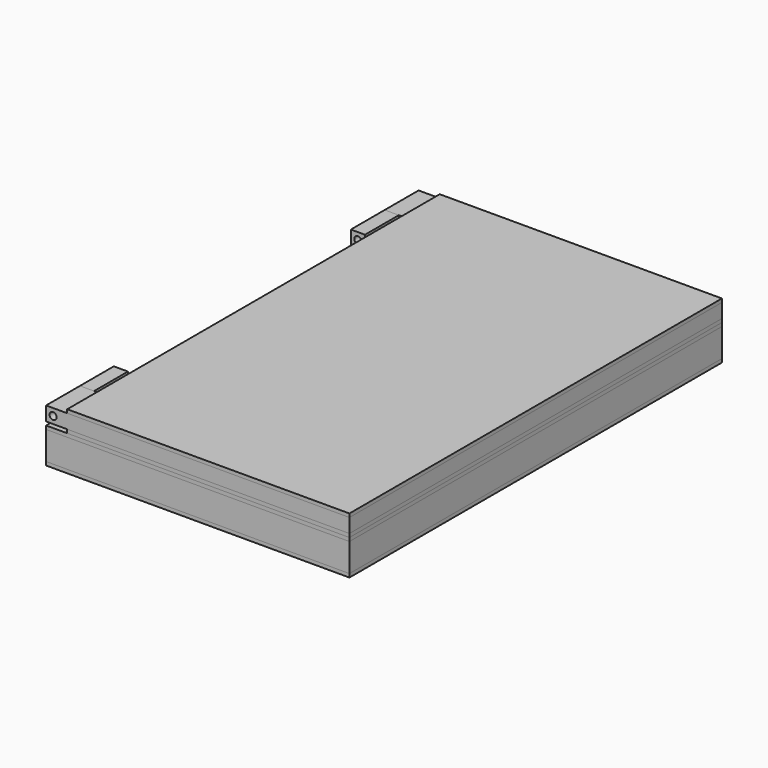
from build123d import *

# Parameters (mm, degrees)
F0_W      = 215
F0_H      = 330
F1_DEPTH  = 2.5
F2_W      = 215
F2_H      = 330
F2_W_2    = 195
F2_H_2    = 310
F3_DEPTH  = 20
F4_R      = 2.5
F5_DEPTH  = 30
F8_W      = 215
F8_H      = 330
F9_DEPTH  = 2.5
F11_W     = 200
F11_H     = 330
F11_W_2   = 170
F11_H_2   = 300
F12_DEPTH = 2.5
F13_W     = 180
F13_H     = 310
F14_DEPTH = 10
F15_W     = 200
F15_H     = 330
F16_DEPTH = 2.5
F17_R     = 2.5
F18_DEPTH = 999


with BuildPart() as f1:
    # F0 (on Top) → F1 (new body)
    with BuildSketch(Plane.XY):
        with Locations((107.5, 165)):
            Rectangle(F0_W, F0_H)
    extrude(amount=F1_DEPTH)


with BuildPart() as f3:
    # F2 (on face) → F3 (new body)
    with BuildSketch(Plane.XY.offset(2.5)):
        with Locations((107.5, 165)):
            Rectangle(F2_W, F2_H)
        with Locations((107.5, 165)):
            Rectangle(F2_W_2, F2_H_2, mode=Mode.SUBTRACT)
    extrude(amount=F3_DEPTH)


with BuildPart() as f5:
    # F4 (on Front) → F5 (new body)
    with BuildSketch(Plane.XZ):
        Polygon((0, 2.5), (0, 0), (0, -2.5), (10, -2.5), (10, 37.5), (0, 37.5), (0, 22.5), (5, 22.5), (5, 2.5), align=None)
        with Locations((5, 32.5)):
            Circle(F4_R, mode=Mode.SUBTRACT)
    extrude(amount=-F5_DEPTH)


with BuildPart() as f5_1:
    # F6: moved
    add(f5.part.moved(Location((0, 30, 0))))


with BuildPart() as f7_1:
    # F7: copy of F5
    add(f5_1.part.moved(Location((0, 240, 0))))


with BuildPart() as f9:
    # F8 (on face) → F9 (new body)
    with BuildSketch(Plane.XY.offset(22.5)):
        with Locations((107.5, 165)):
            Rectangle(F8_W, F8_H)
    extrude(amount=F9_DEPTH)

    # F10: cut F7_1, F5
    add(f7_1.part, mode=Mode.SUBTRACT)
    add(f5_1.part, mode=Mode.SUBTRACT)


with BuildPart() as f3_1:
    add(f3.part)

    # F10: cut F7_1, F5
    add(f7_1.part, mode=Mode.SUBTRACT)
    add(f5_1.part, mode=Mode.SUBTRACT)


with BuildPart() as f1_1:
    add(f1.part)

    # F10: cut F7_1, F5
    add(f7_1.part, mode=Mode.SUBTRACT)
    add(f5_1.part, mode=Mode.SUBTRACT)


with BuildPart() as f12:
    # F11 (on face) → F12 (new body)
    with BuildSketch(Plane.XY.offset(25)):
        with Locations((115, 165)):
            Rectangle(F11_W, F11_H)
        with Locations((115, 165)):
            Rectangle(F11_W_2, F11_H_2, mode=Mode.SUBTRACT)
    extrude(amount=F12_DEPTH)


with BuildPart() as f14:
    # F13 (on face) → F14 (new body)
    with BuildSketch(Plane.XY.offset(27.5)):
        Polygon((0, 0), (215, 0), (215, 330), (0, 330), (0, 300), (15, 300), (15, 30), (0, 30), align=None)
        with Locations((115, 165)):
            Rectangle(F13_W, F13_H, mode=Mode.SUBTRACT)
    extrude(amount=F14_DEPTH)

    # F17 (on face) → F18 (cut)
    with BuildSketch(Plane.XZ):
        with Locations((5, 32.5)):
            Circle(F17_R)
    extrude(amount=-F18_DEPTH, mode=Mode.SUBTRACT)


with BuildPart() as f16:
    # F15 (on face) → F16 (new body)
    with BuildSketch(Plane.XY.offset(37.5)):
        with Locations((115, 165)):
            Rectangle(F15_W, F15_H)
    extrude(amount=F16_DEPTH)


solid = Compound([f5_1.part, f7_1.part, f9.part, f3_1.part, f1_1.part, f12.part, f14.part, f16.part])
